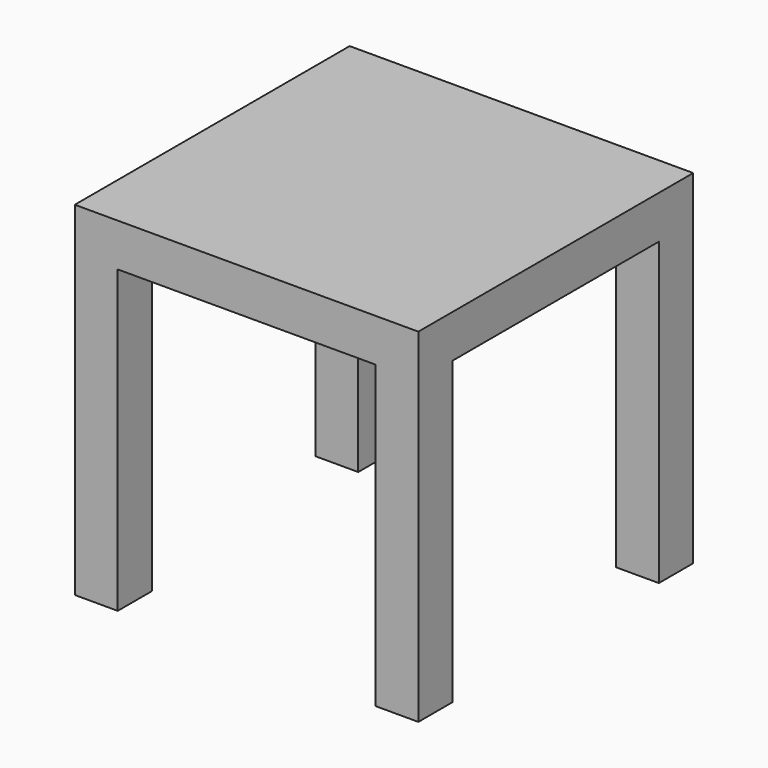
from build123d import *

# Parameters (mm, degrees)
F1_W     = 800
F1_H     = 800
F2_DEPTH = 100
F0_W     = 100
F0_H     = 100
F3_DEPTH = 700


with BuildPart() as f2:
    # F1 (on Top) → F2 (new body)
    with BuildSketch(Plane.XY):
        with Locations((400, 400)):
            Rectangle(F1_W, F1_H)
    extrude(amount=F2_DEPTH)

    # F0 (on Top) → F3 (join)
    with BuildSketch(Plane.XY):
        with Locations((50, 50)):
            Rectangle(F0_W, F0_H)
        with Locations((750, 50)):
            Rectangle(F0_W, F0_H)
        with Locations((50, 750)):
            Rectangle(F0_W, F0_H)
        with Locations((750, 750)):
            Rectangle(F0_W, F0_H)
    extrude(amount=-F3_DEPTH)


solid = f2.part
